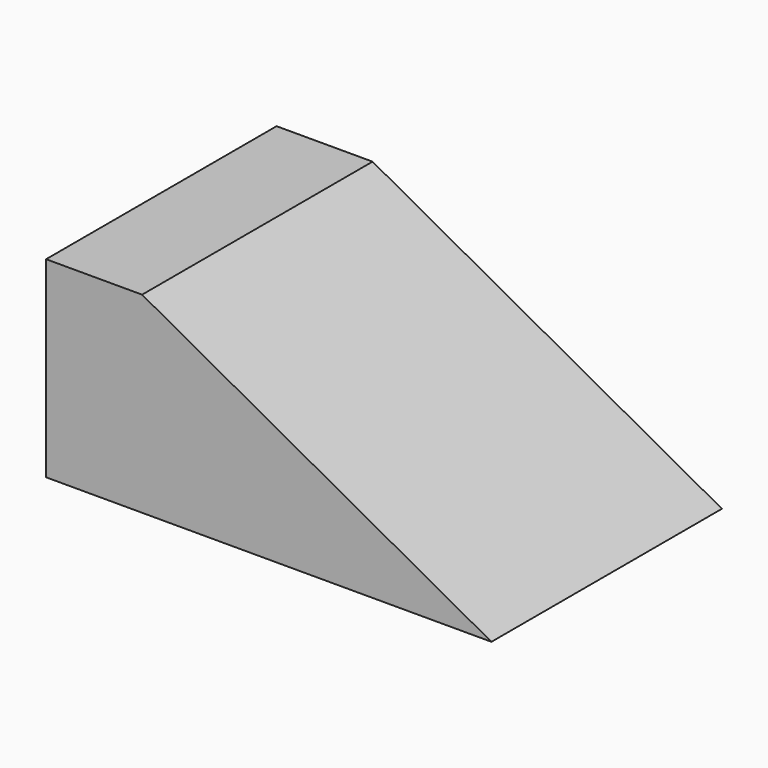
from build123d import *

# Parameters (mm, degrees)
F0_W     = 92.4328938127
F0_H     = 76.2194246054
F1_DEPTH = 50.8
F3_DEPTH = 127
F4_DEPTH = 25.4


with BuildPart() as f1:
    # F0 (on Top) → F1 (new body)
    with BuildSketch(Plane.XY):
        Rectangle(F0_W, F0_H)
    extrude(amount=F1_DEPTH)

    # F2 (on face) → F3 (cut)
    with BuildSketch(Plane.XZ.offset(38.1097123027)):
        Polygon((46.2164469063, 50.8), (-46.2164469063, 50.8), (46.2164469063, 0), align=None)
    extrude(amount=-F3_DEPTH, mode=Mode.SUBTRACT)

    # F4 (add): a face of the model
    f4_faces = [f1.faces().sort_by_distance(p)[0] for p in [
        (-46.2164469063, 0, 25.4),
    ]]
    extrude(f4_faces, amount=F4_DEPTH)


solid = f1.part
